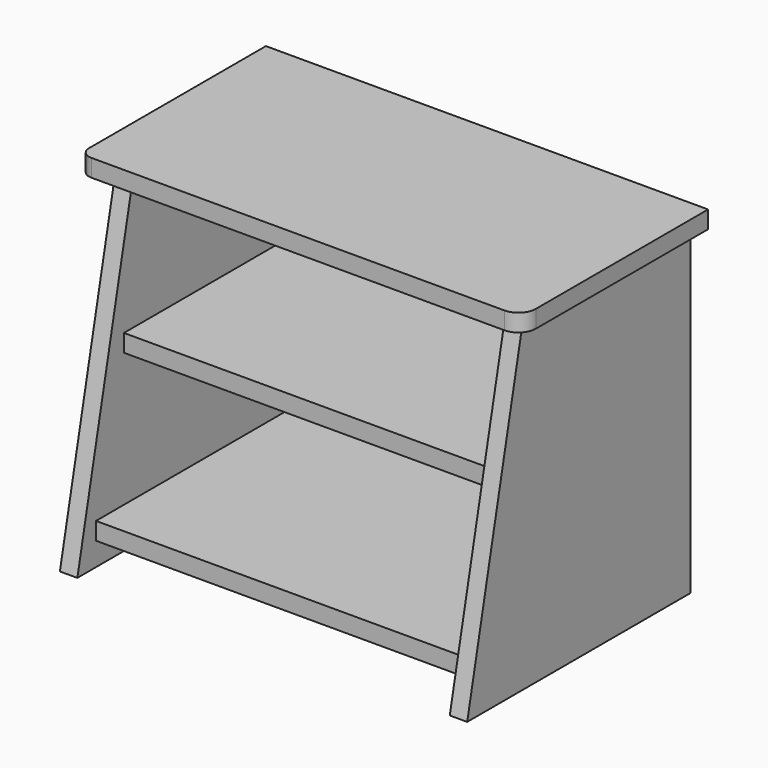
from build123d import *

# Parameters (mm, degrees)
F1_DEPTH = 19.05
F2_W     = 279.4
F2_H     = 19.05
F2_W_2   = 241.3
F2_W_3   = 19.05
F2_H_2   = 76.2
F3_DEPTH = 406.4
F5_DEPTH = 19.05
F7_DEPTH = 19.05


with BuildPart() as f1:
    # F0 (on Right) → F1 (new body)
    with BuildSketch(Plane.YZ):
        Polygon((76.2, 355.6), (0, 0), (304.8, 0), (304.8, 355.6), align=None)
    extrude(amount=F1_DEPTH)

    # F2 (on face) → F3 (join)
    with BuildSketch(Plane(origin=(0, 0, 0), x_dir=(0, -1, 0), z_dir=(-1, 0, 0))):
        with Locations((-165.1, 34.925)):
            Rectangle(F2_W, F2_H)
        with Locations((-184.15, 200.025)):
            Rectangle(F2_W_2, F2_H)
        with Locations((-295.275, 317.5)):
            Rectangle(F2_W_3, F2_H_2)
    extrude(amount=F3_DEPTH)

    # F4 (on face) → F5 (join)
    with BuildSketch(Plane(origin=(-406.4, 0, 0), x_dir=(0, -1, 0), z_dir=(-1, 0, 0))):
        Polygon((-304.8, 0), (0, 0), (-76.2, 355.6), (-304.8, 355.6), align=None)
    extrude(amount=F5_DEPTH)

    # F6 (on face) → F7 (join)
    with BuildSketch(Plane.XY.offset(355.6)):
        with BuildLine():
            Line((38.1, 69.85), (38.1, 304.8))
            Line((38.1, 304.8), (-444.5, 304.8))
            Line((-444.5, 304.8), (-444.5, 63.5))
            ThreePointArc((-444.5, 63.5), (-440.780256, 54.519744), (-431.8, 50.8))
            Line((-431.8, 50.8), (19.05, 50.8))
            ThreePointArc((19.05, 50.8), (32.520384, 56.379616), (38.1, 69.85))
        make_face()
    extrude(amount=F7_DEPTH)


solid = f1.part
